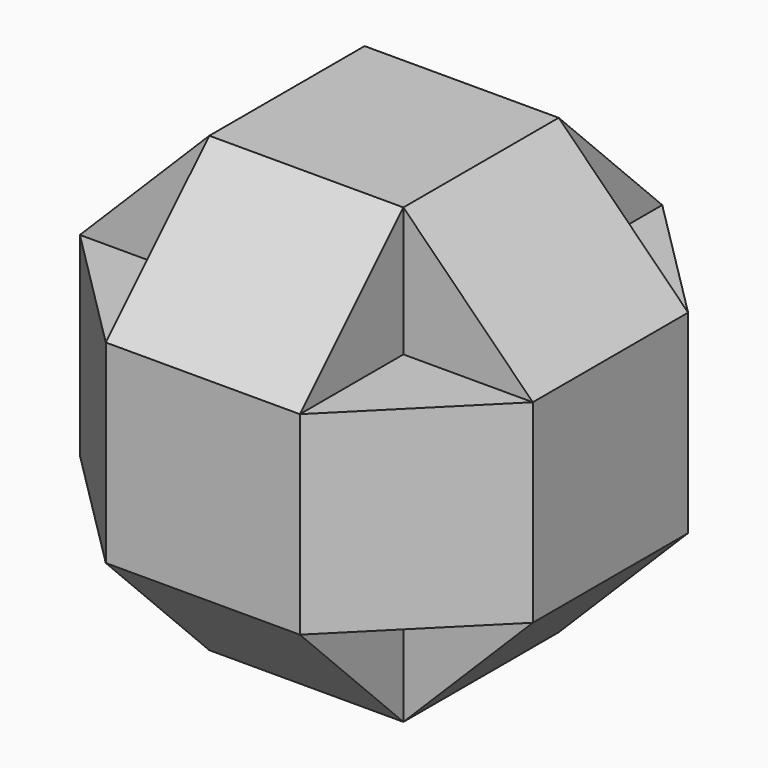
from build123d import *

# Parameters (mm, degrees)
F0_W     = 38.1
F0_H     = 25.4
F0_W_2   = 25.4
F0_H_2   = 38.1
F3_DEPTH = 19.05
F1_W     = 38.1
F1_H     = 25.4
F1_W_2   = 25.4
F1_H_2   = 38.1
F4_DEPTH = 19.05
F2_W     = 38.1
F2_H     = 25.4
F2_W_2   = 25.4
F2_H_2   = 38.1
F5_DEPTH = 19.05


with BuildPart() as f3:
    # F0 (on Front) → F3 (new body, symmetric)
    with BuildSketch(Plane.XZ):
        with Locations((0, 31.75)):
            Rectangle(F0_W, F0_H)
        Polygon((-19.05, 19.05), (-19.05, 44.45), (-44.45, 19.05), align=None)
        Polygon((44.45, 19.05), (19.05, 44.45), (19.05, 19.05), align=None)
        with Locations((-31.75, 0)):
            Rectangle(F0_W_2, F0_H_2)
        with Locations((31.75, 0)):
            Rectangle(F0_W_2, F0_H_2)
        with Locations((0, -31.75)):
            Rectangle(F0_W, F0_H)
        Polygon((-19.05, -44.45), (-19.05, -19.05), (-44.45, -19.05), align=None)
        Polygon((44.45, -19.05), (19.05, -19.05), (19.05, -44.45), align=None)
    extrude(amount=F3_DEPTH, both=True)


with BuildPart() as f4:
    # F1 (on Right) → F4 (new body, symmetric)
    with BuildSketch(Plane.YZ):
        with Locations((0, 31.75)):
            Rectangle(F1_W, F1_H)
        Polygon((44.45, 19.05), (19.05, 44.45), (19.05, 19.05), align=None)
        Polygon((-19.05, 19.05), (-19.05, 44.45), (-44.45, 19.05), align=None)
        with Locations((31.75, 0)):
            Rectangle(F1_W_2, F1_H_2)
        with Locations((-31.75, 0)):
            Rectangle(F1_W_2, F1_H_2)
        Polygon((44.45, -19.05), (19.05, -19.05), (19.05, -44.45), align=None)
        with Locations((0, -31.75)):
            Rectangle(F1_W, F1_H)
        Polygon((-19.05, -44.45), (-19.05, -19.05), (-44.45, -19.05), align=None)
    extrude(amount=F4_DEPTH, both=True)


with BuildPart() as f5:
    # F2 (on Top) → F5 (new body, symmetric)
    with BuildSketch(Plane.XY):
        with Locations((0, -31.75)):
            Rectangle(F2_W, F2_H)
        Polygon((-44.45, -19.05), (-19.05, -44.45), (-19.05, -19.05), align=None)
        Polygon((19.05, -19.05), (19.05, -44.45), (44.45, -19.05), align=None)
        with Locations((-31.75, 0)):
            Rectangle(F2_W_2, F2_H_2)
        with Locations((31.75, 0)):
            Rectangle(F2_W_2, F2_H_2)
        Polygon((-44.45, 19.05), (-19.05, 19.05), (-19.05, 44.45), align=None)
        with Locations((0, 31.75)):
            Rectangle(F2_W, F2_H)
        Polygon((19.05, 44.45), (19.05, 19.05), (44.45, 19.05), align=None)
    extrude(amount=F5_DEPTH, both=True)


solid = Compound([f3.part, f4.part, f5.part])
